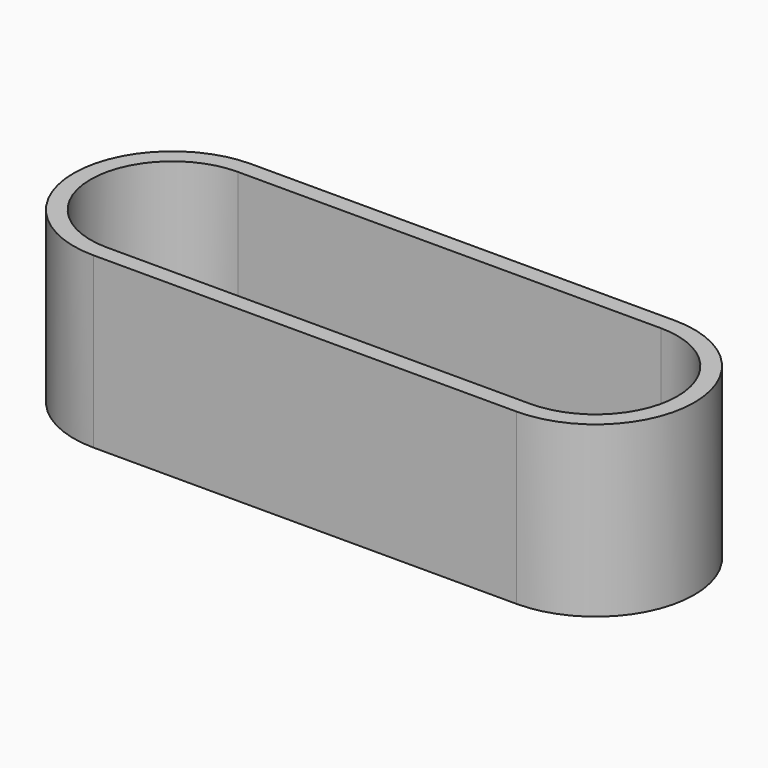
from build123d import *

# Parameters (mm, degrees)
PAD_DEPTH = 30


with BuildPart() as part:
    # Sketch → Pad (new body)
    with BuildSketch(Plane.XY):
        with BuildLine():
            ThreePointArc((0, 35), (-17.5, 17.5), (0, 0))
            Line((0, 0), (75, 0))
            ThreePointArc((75, 0), (92.5, 17.5), (75, 35))
            Line((0, 35), (75, 35))
        make_face()
        with BuildLine():
            ThreePointArc((0, 32), (-14.5, 17.5), (0, 3))
            Line((0, 3), (75, 3))
            ThreePointArc((75, 3), (89.5, 17.5), (75, 32))
            Line((0, 32), (75, 32))
        make_face(mode=Mode.SUBTRACT)
    extrude(amount=PAD_DEPTH)


solid = part.part
